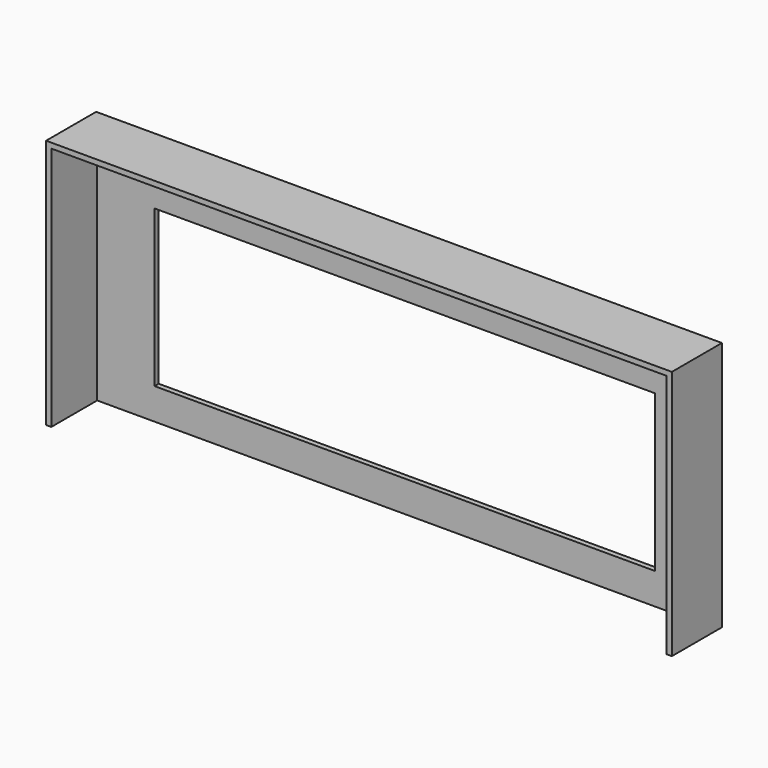
from build123d import *

# Parameters (mm, degrees)
F0_W     = 381
F0_H     = 152.4
F1_DEPTH = 38.1
F2_T     = -3.175
F3_W     = 304.8
F3_H     = 95.25
F4_DEPTH = 25.4


with BuildPart() as f1:
    # F0 (on Front) → F1 (new body)
    with BuildSketch(Plane.XZ):
        Rectangle(F0_W, F0_H)
    extrude(amount=F1_DEPTH)

    # F2
    f2_openings = [f1.faces().sort_by_distance(p)[0] for p in [
        (0, -38.1, 0),
        (0, -19.05, -76.2),
    ]]
    offset(amount=F2_T, openings=f2_openings)

    # F3 (on face) → F4 (cut)
    with BuildSketch(Plane.XZ.offset(3.175)):
        with Locations((0, -9.525)):
            Rectangle(F3_W, F3_H)
    extrude(amount=-F4_DEPTH, mode=Mode.SUBTRACT)


solid = f1.part
